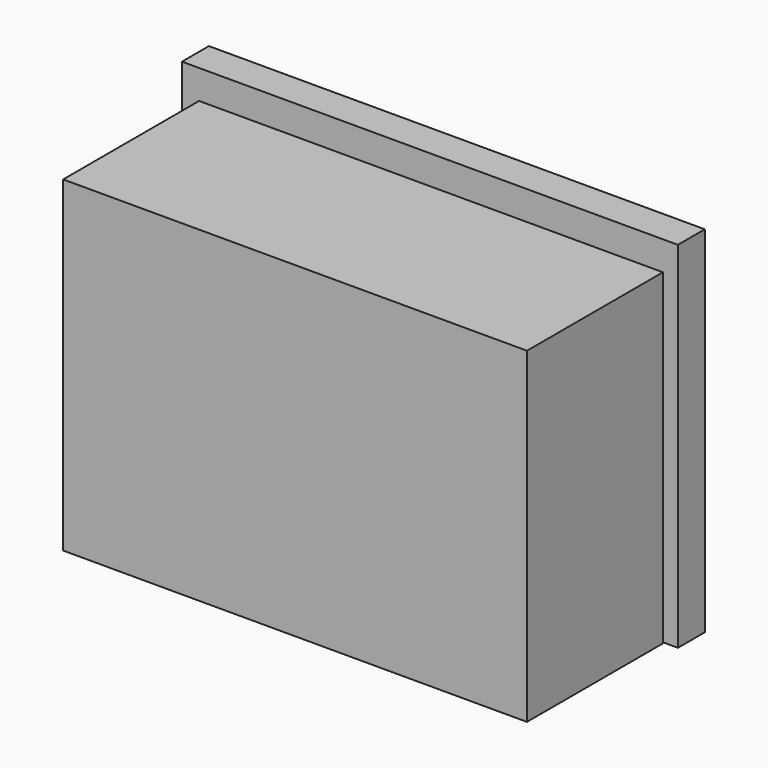
from build123d import *

# Parameters (mm, degrees)
F0_W     = 88.317048
F0_H     = 32.353772
F1_DEPTH = 62.23
F2_T     = -2.54
F3_W     = 94.438031
F3_H     = 6.412459
F4_DEPTH = 67.564


with BuildPart() as f1:
    # F0 (on Top) → F1 (new body)
    with BuildSketch(Plane.XY):
        with Locations((3.060492, -4.080656)):
            Rectangle(F0_W, F0_H)
    extrude(amount=F1_DEPTH)

    # F2
    f2_openings = [f1.faces().sort_by_distance(p)[0] for p in [
        (3.060492, 12.09623, 31.115),
    ]]
    offset(amount=F2_T, openings=f2_openings)


with BuildPart() as f4:
    # F3 (on Top) → F4 (new body)
    with BuildSketch(Plane.XY):
        with Locations((2.623278, 15.593934)):
            Rectangle(F3_W, F3_H)
    extrude(amount=F4_DEPTH)


solid = Compound([f1.part, f4.part])
